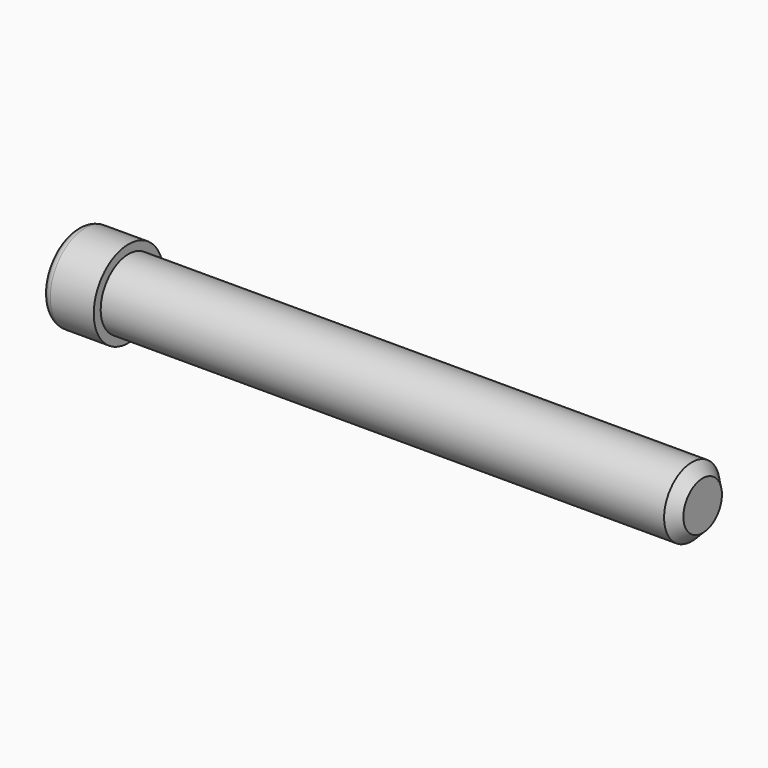
from build123d import *


with BuildPart() as f0:
    # F1 (on Front) → F0 (revolve)
    with BuildSketch(Plane.XZ):
        with BuildLine():
            Line((-47.625, 7.9375), (-55.5625, 7.9375))
            ThreePointArc((-55.5625, 7.9375), (-56.685032, 7.472532), (-57.15, 6.35))
            Line((-57.15, 6.35), (-57.15, 0))
            Line((-57.15, 0), (57.15, 0))
            Line((57.15, 0), (57.15, 4.396154))
            Line((57.15, 4.396154), (55.196154, 6.35))
            Line((55.196154, 6.35), (-47.625, 6.35))
            Line((-47.625, 6.35), (-47.625, 7.9375))
        make_face()
    revolve(axis=Axis((0, 0, 0), (1, 0, 0)))


solid = f0.part
